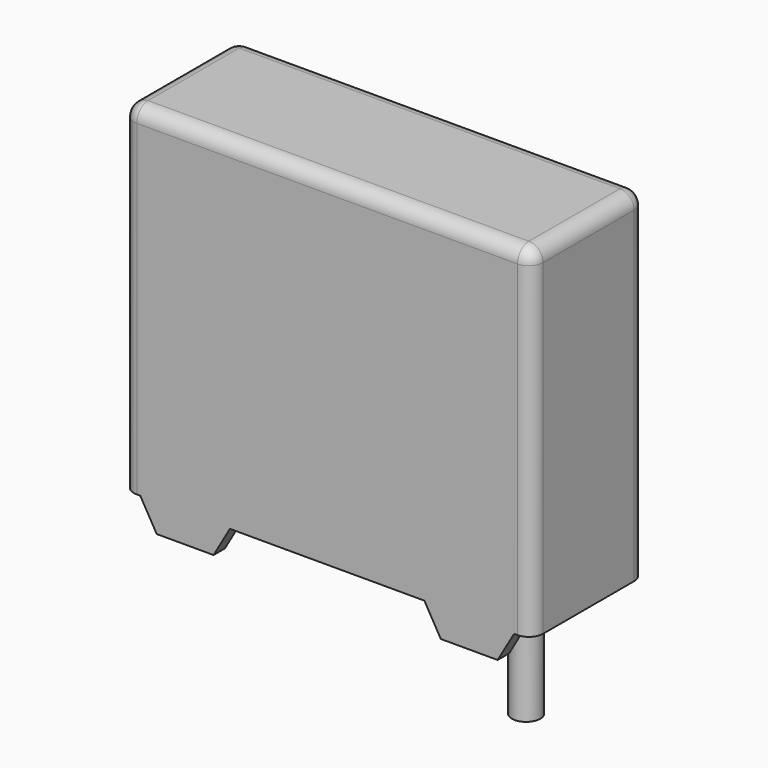
from build123d import *

# Parameters (mm, degrees)
SKETCH_W                = 7.2
SKETCH_H                = 6
PAD_DEPTH               = 1.25
PAD002_DEPTH            = 0.25
PAD002_MIRRORED_2_DEPTH = 0.25
FILLET_R                = 0.25
SKETCH003_R             = 0.25
PAD003_DEPTH            = 2


with BuildPart() as body:
    # Sketch → Pad (new body, symmetric)
    with BuildSketch(Plane.XZ):
        with Locations((0, 3.5)):
            Rectangle(SKETCH_W, SKETCH_H)
    extrude(amount=PAD_DEPTH, both=True)

    # Sketch002 → Pad002 (join)
    with BuildSketch(Plane.XZ.offset(1)):
        Polygon((2, 0), (3, 0), (3.288675, 0.5), (1.711325, 0.5), align=None)
    pad002 = extrude(amount=PAD002_DEPTH)

    # Sketch002 Mirrored 2 → Pad002 Mirrored 2 (add)
    with BuildSketch(Plane(origin=(0, -1, 0), x_dir=(-1, 0, 0), z_dir=(0, 1, 0))):
        Polygon((2, 0), (3, 0), (3.288675, 0.5), (1.711325, 0.5), align=None)
    pad002_mirrored_2 = extrude(amount=-PAD002_MIRRORED_2_DEPTH)

    # Mirrored001: Pad002, Pad002 Mirrored 2 across XZ
    add(pad002.mirror(Plane.XZ))
    add(pad002_mirrored_2.mirror(Plane.XZ))

    # Fillet
    fillet_edges = [body.edges().sort_by_distance(p)[0] for p in [
        (-3.6, -1.25, 3.5),
        (0, -1.25, 6.5),
        (-3.6, 0, 6.5),
        (0, 1.25, 6.5),
        (3.6, 0, 6.5),
        (3.6, -1.25, 3.5),
        (3.6, 1.25, 3.5),
        (-3.6, 1.25, 3.5),
    ]]
    fillet(fillet_edges, radius=FILLET_R)


with BuildPart() as obj1:
    # Sketch003 → Pad003 (new body)
    with BuildSketch(Plane.XY.offset(0.5)):
        with Locations((-2.5, 0)):
            Circle(SKETCH003_R)
    extrude(amount=-PAD003_DEPTH)


with BuildPart() as obj1_1:
    # Body002 placement: moved
    add(obj1.part.moved(Location((5, 0, 0))))


solid = Compound([body.part, obj1_1.part])
